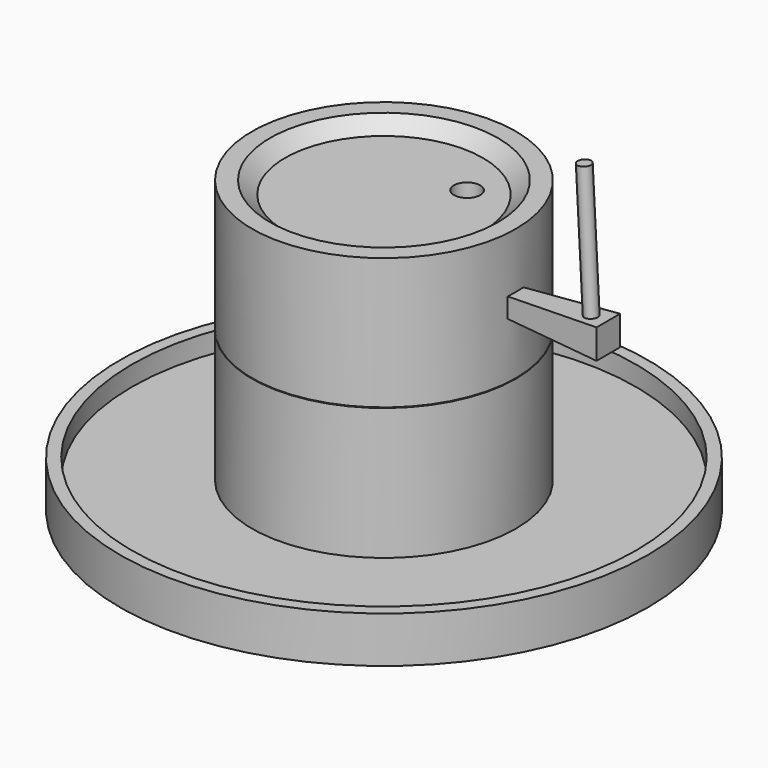
from build123d import *

# Parameters (mm, degrees)
F0_R       = 100
F0_R_2     = 10
F1_DEPTH   = 100
F6_R       = 100
F7_DEPTH   = 100
F13_W      = 15
F13_H      = 15
F14_DEPTH  = 30
F14_TAPER  = 10
F14_FACE_W = 4.4203811575
F14_FACE_H = 4.4203811575
F15_DEPTH  = 30
F15_TAPER  = -10
F16_DEPTH  = 70
F16_TAPER  = -3
F17_R      = 5
F18_DEPTH  = 100
F21_R      = 10
F22_DEPTH  = 25
F23_R      = 15
F24_DEPTH  = 75
F25_R      = 10
F26_DEPTH  = 75
F27_R      = 10
F28_DEPTH  = 145
F29_SIZE   = 10


with BuildPart() as f1:
    # F0 (on Top) → F1 (new body)
    with BuildSketch(Plane.XY):
        Circle(F0_R)
        with Locations((35, 35)):
            Circle(F0_R_2, mode=Mode.SUBTRACT)
    extrude(amount=F1_DEPTH)

    # F2 (on Front) → F3 (revolve, cut)
    with BuildSketch(Plane.XZ):
        Polygon((15, 40), (0, 40), (0, 0), (20, 0), (20, 15), (15, 15), align=None)
    revolve(axis=Axis((0, 0, 20), (0, 0, 1)), mode=Mode.SUBTRACT)

    # F4 (on Front) → F5 (revolve, cut)
    with BuildSketch(Plane.XZ):
        Polygon((105, 0), (0, 9.1863096702), (0, 0), align=None)
    revolve(axis=Axis((0, 0, 4.5931548351), (0, 0, 1)), mode=Mode.SUBTRACT)

    # F10 (on Front) → F11 (revolve, cut)
    with BuildSketch(Plane.XZ):
        Polygon((0, 100), (0, 90.4374433176), (75, 90.4374433176), (86.3962112806, 100), align=None)
    revolve(axis=Axis((0, 0, 95.2187216588), (0, 0, -1)), mode=Mode.SUBTRACT)

    # F13 (on offset) → F14 (cut)
    with BuildSketch(Plane.YZ.offset(100)):
        with Locations((0, 50.4374433176)):
            Rectangle(F13_W, F13_H)
    extrude(amount=-F14_DEPTH, taper=F14_TAPER, mode=Mode.SUBTRACT)


with BuildPart() as f7:
    # F6 (on Top) → F7 (new body)
    with BuildSketch(Plane.XY):
        Circle(F6_R)
    extrude(amount=-F7_DEPTH)

    # F8 (on Front) → F9 (revolve, cut)
    with BuildSketch(Plane.XZ):
        Polygon((15, 0), (0, 0), (0, -100), (35.9774907794, -100), (15, -75), align=None)
    revolve(axis=Axis((0, 0, -50), (0, 0, 1)), mode=Mode.SUBTRACT)


with BuildPart() as f15:
    # F14_face (on face) → F15 (new body)
    with BuildSketch(Plane(origin=(70, 0, 50.4374433176), x_dir=(0, 1, 0), z_dir=(1, 0, 0))):
        Rectangle(F14_FACE_W, F14_FACE_H)
    extrude(amount=F15_DEPTH, taper=F15_TAPER)

    # F13 (on offset) → F16 (join)
    with BuildSketch(Plane.YZ.offset(100)):
        with Locations((0, 50.4374433176)):
            Rectangle(F13_W, F13_H)
    extrude(amount=F16_DEPTH, taper=F16_TAPER)

    # F17 (on face) → F18 (join)
    with BuildSketch(Plane(origin=(-2.7541507262, 0, 52.552326466), x_dir=(0.9986295348, 0, 0.0523359562), z_dir=(-0.0523359562, 0, 0.9986295348))):
        with Locations((160, 0)):
            Circle(F17_R)
    extrude(amount=F18_DEPTH)


with BuildPart() as f20:
    # F19 (on Front) → F20 (revolve)
    with BuildSketch(Plane.XZ):
        Polygon((15, 40), (0, 40), (0, 7.5), (20, 7.5), (20, 15), (15, 15), align=None)
    revolve(axis=Axis((0, 0, 20), (0, 0, 1)))

    # F21 (on face) → F22 (cut)
    with BuildSketch(Plane(origin=(0, 0, 7.5), x_dir=(1, 0, 0), z_dir=(0, 0, -1))):
        Circle(F21_R)
    extrude(amount=-F22_DEPTH, mode=Mode.SUBTRACT)


with BuildPart() as f24:
    # F23 (on Top) → F24 (new body)
    with BuildSketch(Plane.XY):
        Circle(F23_R)
    extrude(amount=-F24_DEPTH)

    # F25 (on face) → F26 (cut)
    with BuildSketch(Plane.XY):
        Circle(F25_R)
    extrude(amount=-F26_DEPTH, mode=Mode.SUBTRACT)


with BuildPart() as f28:
    # F27 (on face) → F28 (new body)
    with BuildSketch(Plane(origin=(0, 0, 32.5), x_dir=(1, 0, 0), z_dir=(0, 0, -1))):
        Circle(F27_R)
    extrude(amount=F28_DEPTH)

    # F29
    f29_edges = [f28.edges().sort_by_distance(p)[0] for p in [
        (-10, 0, -112.5),
    ]]
    chamfer(f29_edges, length=F29_SIZE)


with BuildPart() as f31:
    # F30 (on Front) → F31 (revolve)
    with BuildSketch(Plane.XZ):
        Polygon((190.9774907794, -85), (190.9774907794, -100), (35.9774907794, -100), (15, -75), (0, -75), (0, -120), (200, -120), (200, -85), align=None)
    revolve(axis=Axis((0, 0, -97.5), (0, 0, 1)))

    # F32: cut F28
    add(f28.part, mode=Mode.SUBTRACT)


solid = Compound([f1.part, f7.part, f15.part, f20.part, f24.part, f28.part, f31.part])
